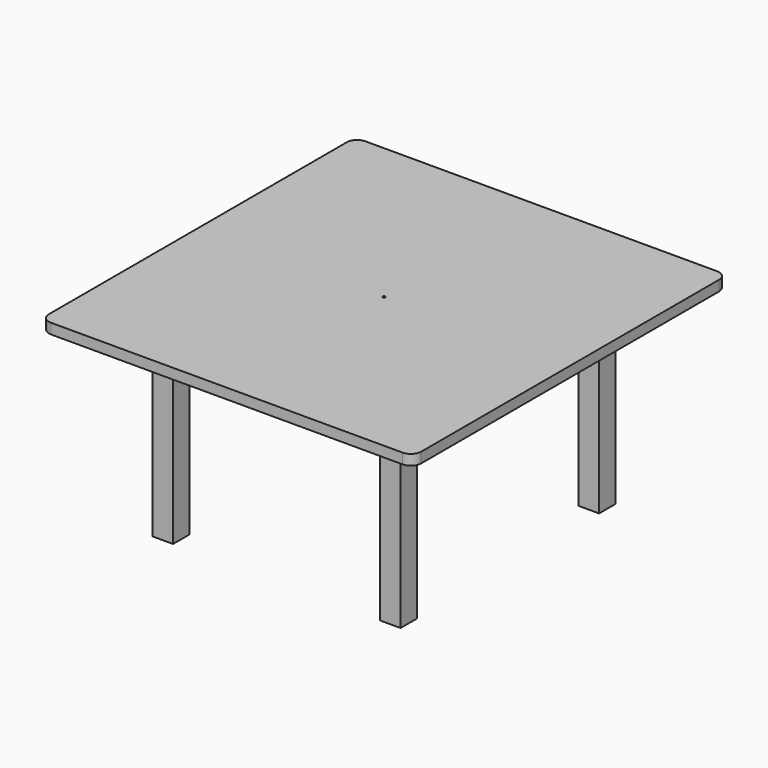
from build123d import *

# Parameters (mm, degrees)
F0_W     = 101.6
F0_H     = 101.6
F0_W_2   = 88.9
F0_H_2   = 88.9
F1_DEPTH = 914.4
F2_W     = 1828.8
F2_H     = 1930.4
F3_DEPTH = 50.8
F4_R     = 50.8
F5_R     = 50.8
F6_D     = 13.49248


with BuildPart() as f1:
    # F0 (on Top) → F1 (new body)
    with BuildSketch(Plane.XY):
        with Locations((-270.7694334187, 217.0607238128)):
            Rectangle(F0_W, F0_H)
        with Locations((-270.7694334187, 217.0607238128)):
            Rectangle(F0_W_2, F0_H_2, mode=Mode.SUBTRACT)
    extrude(amount=F1_DEPTH)


with BuildPart() as f1b:
    # F0 (on Top) → F1, piece 2 (new body)
    with BuildSketch(Plane.XY):
        with Locations((846.8305665813, 217.0607238128)):
            Rectangle(F0_W, F0_H)
        with Locations((846.8305665813, 217.0607238128)):
            Rectangle(F0_W_2, F0_H_2, mode=Mode.SUBTRACT)
    extrude(amount=F1_DEPTH)


with BuildPart() as f1c:
    # F0 (on Top) → F1, piece 3 (new body)
    with BuildSketch(Plane.XY):
        with Locations((-270.7694334187, -1002.1392761872)):
            Rectangle(F0_W, F0_H)
        with Locations((-270.7694334187, -1002.1392761872)):
            Rectangle(F0_W_2, F0_H_2, mode=Mode.SUBTRACT)
    extrude(amount=F1_DEPTH)


with BuildPart() as f1d:
    # F0 (on Top) → F1, piece 4 (new body)
    with BuildSketch(Plane.XY):
        with Locations((846.8305665813, -1002.1392761872)):
            Rectangle(F0_W, F0_H)
        with Locations((846.8305665813, -1002.1392761872)):
            Rectangle(F0_W_2, F0_H_2, mode=Mode.SUBTRACT)
    extrude(amount=F1_DEPTH)


with BuildPart() as f3:
    # F2 (on face) → F3 (new body)
    with BuildSketch(Plane.XY.offset(914.4)):
        with Locations((288.0305665813, -392.5392761872)):
            Rectangle(F2_W, F2_H)
    extrude(amount=F3_DEPTH)

    # F4
    f4_edges = [f3.edges().sort_by_distance(p)[0] for p in [
        (1202.430567, -1357.739276, 939.8),
        (1202.430567, 572.660724, 939.8),
    ]]
    fillet(f4_edges, radius=F4_R)

    # F5
    f5_edges = [f3.edges().sort_by_distance(p)[0] for p in [
        (-626.369433, 572.660724, 939.8),
        (-626.369433, -1357.739276, 939.8),
    ]]
    fillet(f5_edges, radius=F5_R)

    # F6 (through all)
    with Locations(Plane(origin=(0, 0, 914.4), x_dir=(1, 0, 0), z_dir=(0, 0, -1))):
        with Locations((288.0305665813, 392.5392761872)):
            Hole(F6_D / 2)


solid = Compound([f1.part, f1b.part, f1c.part, f1d.part, f3.part])
